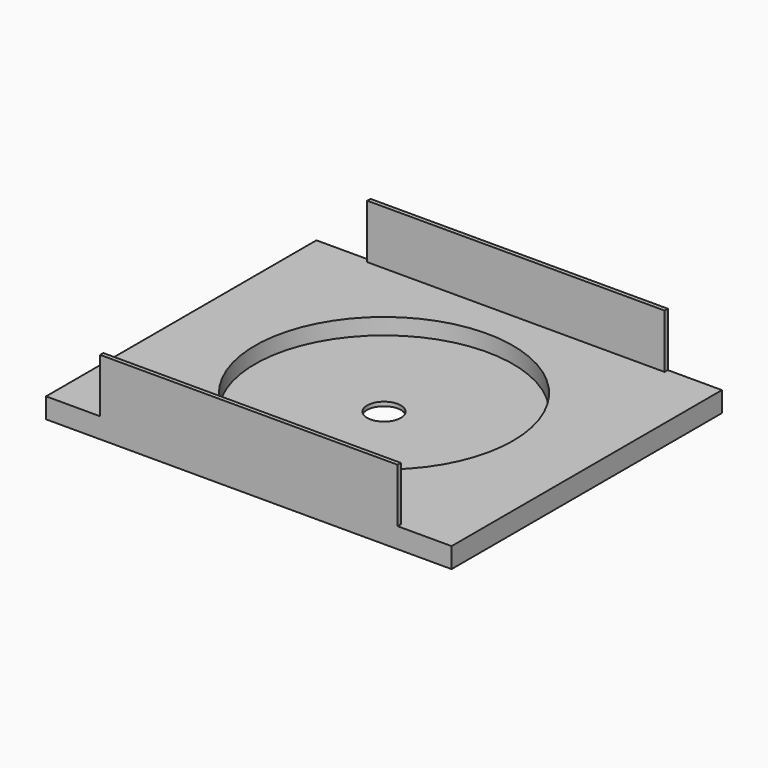
from build123d import *

# Parameters (mm, degrees)
F0_W     = 300
F0_H     = 250
F1_DEPTH = 15
F2_R     = 95.409832
F3_DEPTH = 12
F4_R     = 12.5
F5_DEPTH = 15.001
F6_W     = 220
F6_H     = 3
F7_DEPTH = 40


with BuildPart() as f1:
    # F0 (on Top) → F1 (new body)
    with BuildSketch(Plane.XY):
        Rectangle(F0_W, F0_H)
    extrude(amount=F1_DEPTH)

    # F2 (on face) → F3 (cut)
    with BuildSketch(Plane.XY.offset(15)):
        Circle(F2_R)
    extrude(amount=-F3_DEPTH, mode=Mode.SUBTRACT)

    # F4 (on face) → F5 (cut, through all)
    with BuildSketch(Plane.XY.offset(15)):
        Circle(F4_R)
    extrude(amount=-F5_DEPTH, mode=Mode.SUBTRACT)

    # F6 (on face) → F7 (join)
    with BuildSketch(Plane.XY.offset(15)):
        with Locations((0, 123.5)):
            Rectangle(F6_W, F6_H)
        with Locations((0, -123.5)):
            Rectangle(F6_W, F6_H)
    extrude(amount=F7_DEPTH)


solid = f1.part
